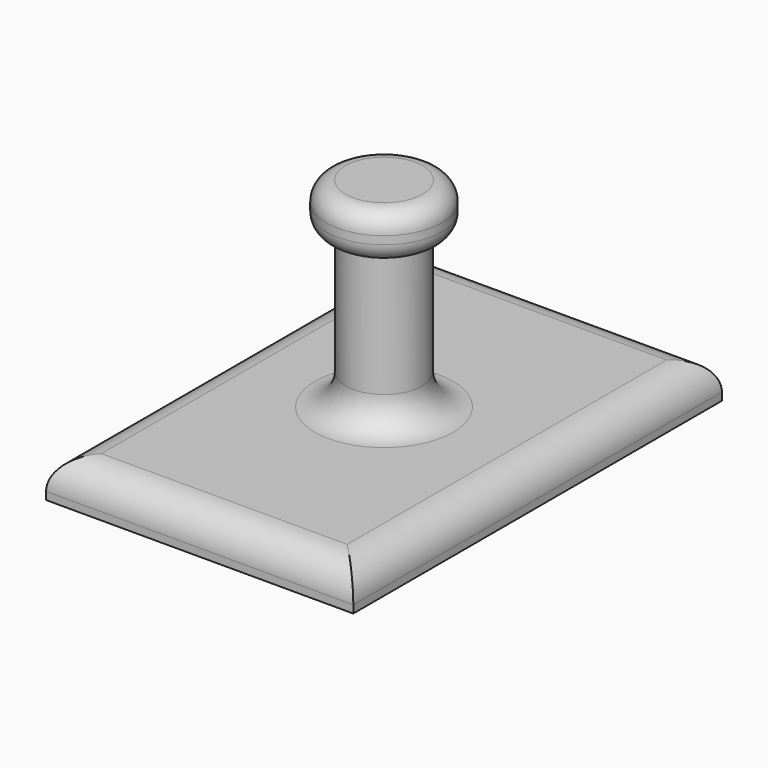
from build123d import *

# Parameters (mm, degrees)
SKETCH_W     = 20
SKETCH_H     = 30
PAD_DEPTH    = 2.5
SKETCH001_R  = 2.5
PAD001_DEPTH = 10
SKETCH002_R  = 3.75
PAD002_DEPTH = 3
FILLET_R     = 2
FILLET001_R  = 1.24


with BuildPart() as part:
    # Sketch → Pad (new body)
    with BuildSketch(Plane.XY):
        Rectangle(SKETCH_W, SKETCH_H)
    extrude(amount=PAD_DEPTH)

    # Sketch001 (on Face6 of Pad) → Pad001 (join)
    with BuildSketch(Plane.XY.offset(2.5)):
        Circle(SKETCH001_R)
    extrude(amount=PAD001_DEPTH)

    # Sketch002 (on Face8 of Pad001) → Pad002 (join)
    with BuildSketch(Plane.XY.offset(12.5)):
        Circle(SKETCH002_R)
    extrude(amount=PAD002_DEPTH)

    # Fillet
    fillet_edges = [part.edges().sort_by_distance(p)[0] for p in [
        (-10, 0, 2.5),
        (0, -15, 2.5),
        (10, 0, 2.5),
        (0, 15, 2.5),
        (-2.5, 0, 2.5),
    ]]
    fillet(fillet_edges, radius=FILLET_R)

    # Fillet001
    fillet001_edges = [part.edges().sort_by_distance(p)[0] for p in [
        (-3.75, 0, 12.5),
        (-3.75, 0, 15.5),
    ]]
    fillet(fillet001_edges, radius=FILLET001_R)


solid = part.part
